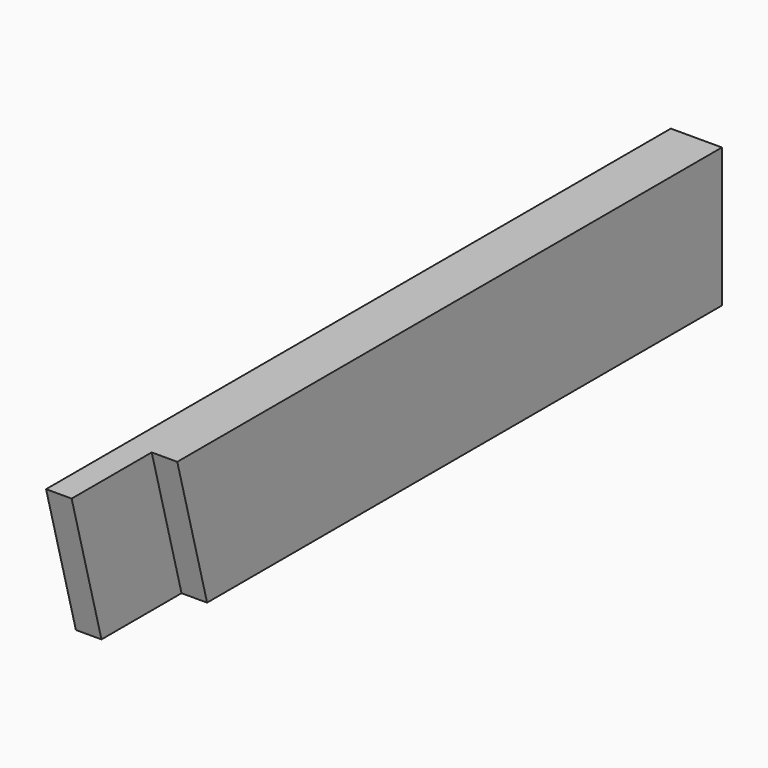
from build123d import *

# Parameters (mm, degrees)
F0_W     = 36
F0_H     = 98
F1_DEPTH = 550
F3_DEPTH = 36
F5_DEPTH = 18


with BuildPart() as f1:
    # F0 (on Front) → F1 (new body)
    with BuildSketch(Plane.XZ):
        Rectangle(F0_W, F0_H)
    extrude(amount=F1_DEPTH)

    # F2 (on face) → F3 (cut, through all)
    with BuildSketch(Plane.YZ.offset(18)):
        Polygon((-523.740979, -49), (-550, 49), (-550, -49), align=None)
    extrude(amount=-F3_DEPTH, mode=Mode.SUBTRACT)

    # F4 (on face) → F5 (cut)
    with BuildSketch(Plane.YZ.offset(18)):
        Polygon((-479.5, 49), (-550, 49), (-523.740979, -49), (-453.240979, -49), align=None)
    extrude(amount=-F5_DEPTH, mode=Mode.SUBTRACT)


solid = f1.part
